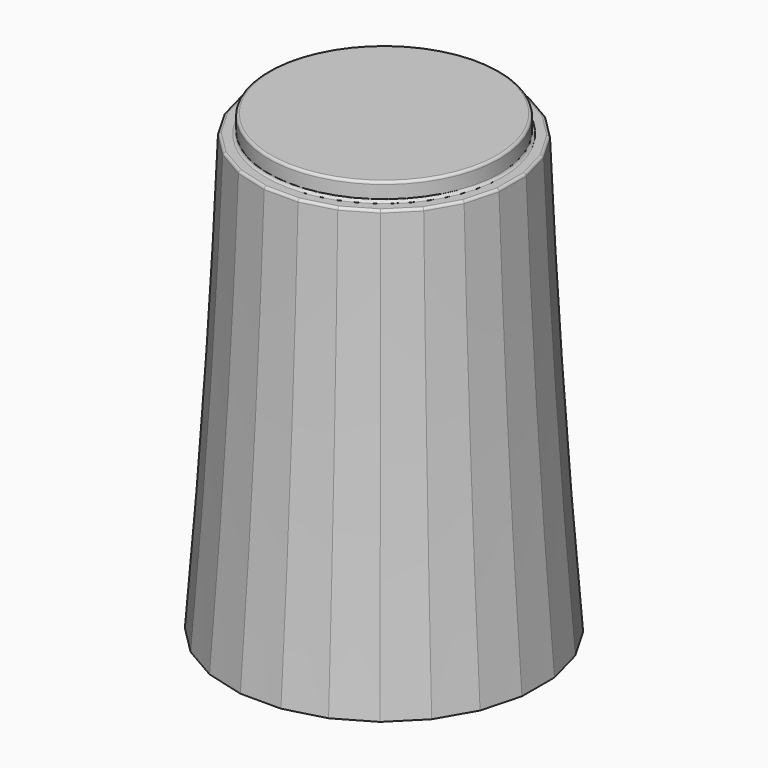
from build123d import *

# Parameters (mm, degrees)
SKETCH399_R     = 4.5
PAD073_DEPTH    = 0.7
SKETCH398_R     = 5
POCKET075_DEPTH = 1
SKETCH396_R     = 4.65
POCKET069_DEPTH = 1
POCKET074_DEPTH = 8
CHAMFER061_SIZE = 1.4
CHAMFER060_SIZE = 0.3
FILLET028_R     = 0.1


with BuildPart() as part:
    # Sketch400 → AdditiveLoft043 section 0
    with BuildSketch(Plane.XY):
        Polygon((-0.789915, 6), (-2.315914, 5.59111), (-3.684086, 4.801195), (-4.801195, 3.684086), (-5.59111, 2.315914), (-6, 0.789915), (-6, -0.789915), (-5.59111, -2.315914), (-4.801195, -3.684086), (-3.684086, -4.801195), (-2.315914, -5.59111), (-0.789915, -6), (0.789915, -6), (2.315914, -5.59111), (3.684086, -4.801195), (4.801195, -3.684086), (5.59111, -2.315914), (6, -0.789915), (6, 0.789915), (5.59111, 2.315914), (4.801195, 3.684086), (3.684086, 4.801195), (2.315914, 5.59111), (0.789915, 6), align=None)
    # Sketch395 → AdditiveLoft043 section 1
    with BuildSketch(Plane.XY.offset(7)):
        Polygon((-0.724089, 5.5), (-2.122921, 5.125184), (-3.377079, 4.401095), (-4.401095, 3.377079), (-5.125184, 2.122921), (-5.5, 0.724089), (-5.5, -0.724089), (-5.125184, -2.122921), (-4.401095, -3.377079), (-3.377079, -4.401095), (-2.122921, -5.125184), (-0.724089, -5.5), (0.724089, -5.5), (2.122921, -5.125184), (3.377079, -4.401095), (4.401095, -3.377079), (5.125184, -2.122921), (5.5, -0.724089), (5.5, 0.724089), (5.125184, 2.122921), (4.401095, 3.377079), (3.377079, 4.401095), (2.122921, 5.125184), (0.724089, 5.5), align=None)
    # Sketch402 → AdditiveLoft043 section 2
    with BuildSketch(Plane.XY.offset(17)):
        Polygon((-4.659258, 1.929928), (-5, 0.658262), (-5, -0.658262), (-4.659258, -1.929928), (-4.000996, -3.070072), (-3.070072, -4.000996), (-1.929928, -4.659258), (-0.658262, -5), (0.658262, -5), (1.929928, -4.659258), (3.070072, -4.000996), (4.000996, -3.070072), (4.659258, -1.929928), (5, -0.658262), (5, 0.658262), (4.659258, 1.929928), (4.000996, 3.070072), (3.070072, 4.000996), (1.929928, 4.659258), (0.658262, 5), (-0.658262, 5), (-1.929928, 4.659258), (-3.070072, 4.000996), (-4.000996, 3.070072), align=None)
    loft()

    # Sketch399 (on Face3 of AdditiveLoft043) → Pad073 (new body)
    with BuildSketch(Plane.XY.offset(17)):
        Circle(SKETCH399_R)
    extrude(amount=PAD073_DEPTH)

    # Sketch398 (on Face1 of Pad073) → Pocket075 (cut)
    with BuildSketch(Plane(origin=(0, 0, 0), x_dir=(1, 0, 0), z_dir=(0, 0, -1))):
        Circle(SKETCH398_R)
    extrude(amount=-POCKET075_DEPTH, mode=Mode.SUBTRACT)

    # Sketch396 (on Face28 of Pocket075) → Pocket069 (cut)
    with BuildSketch(Plane(origin=(0, 0, 1), x_dir=(1, 0, 0), z_dir=(0, 0, -1))):
        Circle(SKETCH396_R)
    extrude(amount=-POCKET069_DEPTH, mode=Mode.SUBTRACT)

    # Sketch397 (on Face32 of Pocket069) → Pocket074 (cut)
    with BuildSketch(Plane(origin=(0, 0, 2), x_dir=(1, 0, 0), z_dir=(0, 0, -1))):
        with BuildLine():
            ThreePointArc((-1.741757, 2.442598), (0, -3), (1.741757, 2.442598))
            Line((-1.741757, 2.442598), (1.741757, 2.442598))
        make_face()
    extrude(amount=-POCKET074_DEPTH, mode=Mode.SUBTRACT)

    # Chamfer061
    chamfer061_edges = [part.edges().sort_by_distance(p)[0] for p in [
        (0, 3, 2),
        (0, -2.442598, 2),
    ]]
    chamfer(chamfer061_edges, length=CHAMFER061_SIZE)

    # Chamfer060
    chamfer060_edges = [part.edges().sort_by_distance(p)[0] for p in [
        (-4.65, 0, 1),
    ]]
    chamfer(chamfer060_edges, length=CHAMFER060_SIZE)

    # Fillet028
    fillet028_edges = [part.edges().sort_by_distance(p)[0] for p in [
        (-4.5, 0, 17.7),
        (-4.829629, 1.294095, 17),
        (-4.330127, 2.5, 17),
        (-5, 0, 17),
        (-3.535534, 3.535534, 17),
        (-4.829629, -1.294095, 17),
        (-2.5, 4.330127, 17),
        (-4.330127, -2.5, 17),
        (-1.294095, 4.829629, 17),
        (-3.535534, -3.535534, 17),
        (0, 5, 17),
        (-2.5, -4.330127, 17),
        (1.294095, 4.829629, 17),
        (-1.294095, -4.829629, 17),
        (2.5, 4.330127, 17),
        (0, -5, 17),
        (3.535534, 3.535534, 17),
        (1.294095, -4.829629, 17),
        (4.330127, 2.5, 17),
        (2.5, -4.330127, 17),
        (4.829629, 1.294095, 17),
        (3.535534, -3.535534, 17),
        (5, 0, 17),
        (4.330127, -2.5, 17),
        (4.829629, -1.294095, 17),
        (-4.5, 0, 17),
    ]]
    fillet(fillet028_edges, radius=FILLET028_R)


solid = part.part
